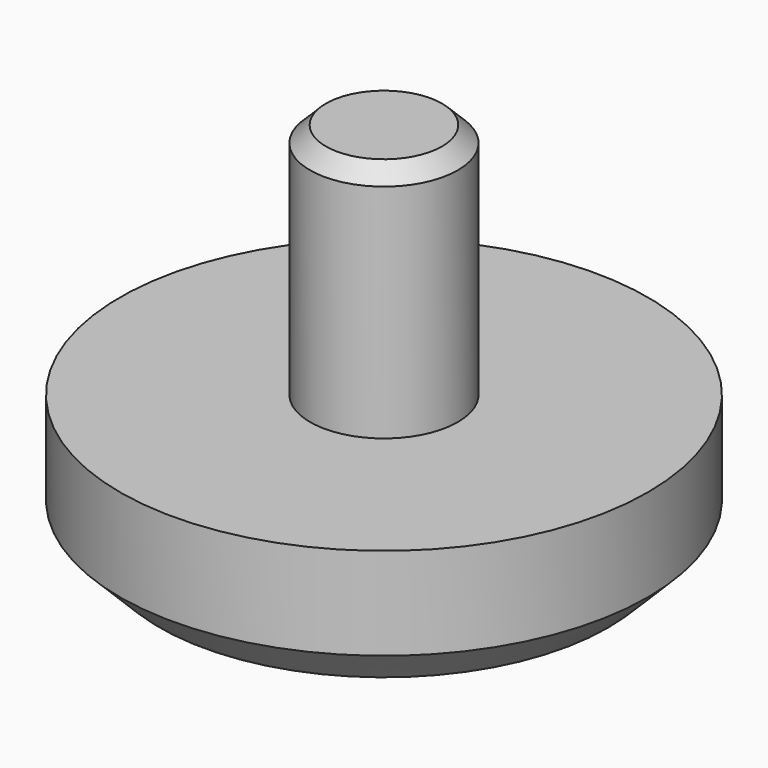
from build123d import *

# Parameters (mm, degrees)
F0_R     = 10
F1_DEPTH = 5
F2_R     = 2.8
F3_DEPTH = 9
F4_SIZE  = 1.5
F5_SIZE  = 0.6


with BuildPart() as f1:
    # F0 (on Top) → F1 (new body)
    with BuildSketch(Plane.XY):
        Circle(F0_R)
    extrude(amount=F1_DEPTH)

    # F2 (on face) → F3 (join)
    with BuildSketch(Plane.XY.offset(5)):
        Circle(F2_R)
    extrude(amount=F3_DEPTH)

    # F4
    f4_edges = [f1.edges().sort_by_distance(p)[0] for p in [
        (-10, 0, 0),
    ]]
    chamfer(f4_edges, length=F4_SIZE)

    # F5
    f5_edges = [f1.edges().sort_by_distance(p)[0] for p in [
        (-2.8, 0, 14),
    ]]
    chamfer(f5_edges, length=F5_SIZE)


solid = f1.part
